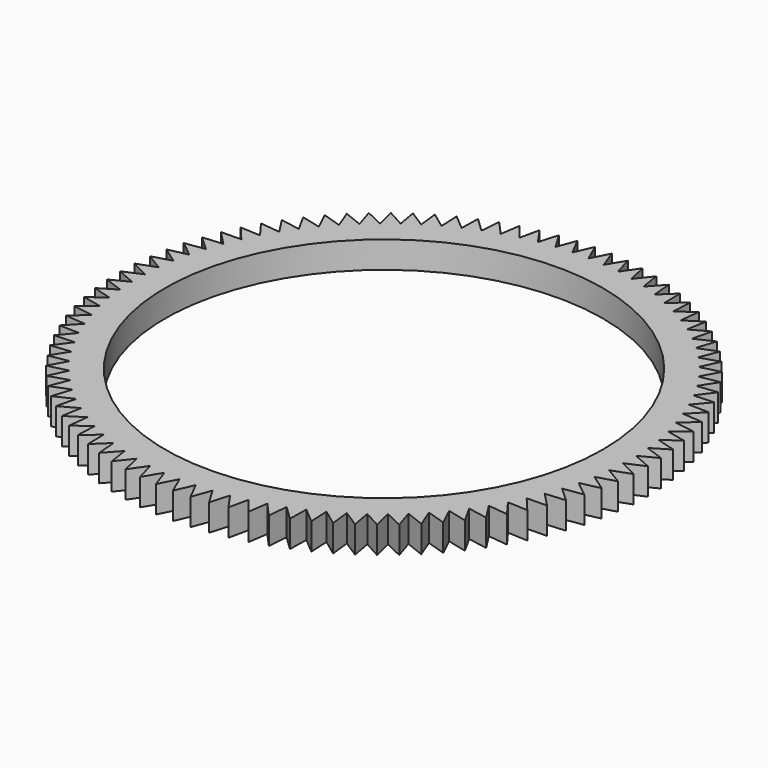
from build123d import *

# Parameters (mm, degrees)
F0_R     = 16.335263
F1_DEPTH = 2


with BuildPart() as f1:
    # F0 (on Top) → F1 (new body)
    with BuildSketch(Plane.XY):
        Polygon((0.6, 18.328104), (0, 19.702877), (-0.6, 18.328104), (-1.28863, 19.660691), (-1.797431, 18.24962), (-2.571741, 19.534316), (-2.987165, 18.092989), (-3.843841, 19.324291), (-4.164107, 17.85888), (-5.09948, 19.031517), (-5.323218, 17.548298), (-6.333282, 18.657248), (-6.459534, 17.16257), (-7.539964, 18.203085), (-7.568189, 16.70335), (-8.71436, 17.670973), (-8.644437, 16.172604), (-9.851438, 17.063192), (-9.683667, 15.572604), (-10.946332, 16.382343), (-10.681431, 14.905919), (-11.994351, 15.631343), (-11.633455, 14.175406), (-12.991009, 14.813407), (-12.535663, 13.384191), (-13.932038, 13.932038), (-13.384191, 12.535663), (-14.813407, 12.991009), (-14.175406, 11.633455), (-15.631343, 11.994351), (-14.905919, 10.681431), (-16.382343, 10.946332), (-15.572604, 9.683667), (-17.063192, 9.851438), (-16.172604, 8.644437), (-17.670973, 8.71436), (-16.70335, 7.568189), (-18.203085, 7.539964), (-17.16257, 6.459534), (-18.657248, 6.333282), (-17.548298, 5.323218), (-19.031517, 5.09948), (-17.85888, 4.164107), (-19.324291, 3.843841), (-18.092989, 2.987165), (-19.534316, 2.571741), (-18.24962, 1.797431), (-19.660691, 1.28863), (-18.328104, 0.6), (-19.702877, 0), (-18.328104, -0.6), (-19.660691, -1.28863), (-18.24962, -1.797431), (-19.534316, -2.571741), (-18.092989, -2.987165), (-19.324291, -3.843841), (-17.85888, -4.164107), (-19.031517, -5.09948), (-17.548298, -5.323218), (-18.657248, -6.333282), (-17.16257, -6.459534), (-18.203085, -7.539964), (-16.70335, -7.568189), (-17.670973, -8.71436), (-16.172604, -8.644437), (-17.063192, -9.851438), (-15.572604, -9.683667), (-16.382343, -10.946332), (-14.905919, -10.681431), (-15.631343, -11.994351), (-14.175406, -11.633455), (-14.813407, -12.991009), (-13.384191, -12.535663), (-13.932038, -13.932038), (-12.535663, -13.384191), (-12.991009, -14.813407), (-11.633455, -14.175406), (-11.994351, -15.631343), (-10.681431, -14.905919), (-10.946332, -16.382343), (-9.683667, -15.572604), (-9.851438, -17.063192), (-8.644437, -16.172604), (-8.71436, -17.670973), (-7.568189, -16.70335), (-7.539964, -18.203085), (-6.459534, -17.16257), (-6.333282, -18.657248), (-5.323218, -17.548298), (-5.09948, -19.031517), (-4.164107, -17.85888), (-3.843841, -19.324291), (-2.987165, -18.092989), (-2.571741, -19.534316), (-1.797431, -18.24962), (-1.28863, -19.660691), (-0.6, -18.328104), (0, -19.702877), (0.6, -18.328104), (1.28863, -19.660691), (1.797431, -18.24962), (2.571741, -19.534316), (2.987165, -18.092989), (3.843841, -19.324291), (4.164107, -17.85888), (5.09948, -19.031517), (5.323218, -17.548298), (6.333282, -18.657248), (6.459534, -17.16257), (7.539964, -18.203085), (7.568189, -16.70335), (8.71436, -17.670973), (8.644437, -16.172604), (9.851438, -17.063192), (9.683667, -15.572604), (10.946332, -16.382343), (10.681431, -14.905919), (11.994351, -15.631343), (11.633455, -14.175406), (12.991009, -14.813407), (12.535663, -13.384191), (13.932038, -13.932038), (13.384191, -12.535663), (14.813407, -12.991009), (14.175406, -11.633455), (15.631343, -11.994351), (14.905919, -10.681431), (16.382343, -10.946332), (15.572604, -9.683667), (17.063192, -9.851438), (16.172604, -8.644437), (17.670973, -8.71436), (16.70335, -7.568189), (18.203085, -7.539964), (17.16257, -6.459534), (18.657248, -6.333282), (17.548298, -5.323218), (19.031517, -5.09948), (17.85888, -4.164107), (19.324291, -3.843841), (18.092989, -2.987165), (19.534316, -2.571741), (18.24962, -1.797431), (19.660691, -1.28863), (18.328104, -0.6), (19.702877, 0), (18.328104, 0.6), (19.660691, 1.28863), (18.24962, 1.797431), (19.534316, 2.571741), (18.092989, 2.987165), (19.324291, 3.843841), (17.85888, 4.164107), (19.031517, 5.09948), (17.548298, 5.323218), (18.657248, 6.333282), (17.16257, 6.459534), (18.203085, 7.539964), (16.70335, 7.568189), (17.670973, 8.71436), (16.172604, 8.644437), (17.063192, 9.851438), (15.572604, 9.683667), (16.382343, 10.946332), (14.905919, 10.681431), (15.631343, 11.994351), (14.175406, 11.633455), (14.813407, 12.991009), (13.384191, 12.535663), (13.932038, 13.932038), (12.535663, 13.384191), (12.991009, 14.813407), (11.633455, 14.175406), (11.994351, 15.631343), (10.681431, 14.905919), (10.946332, 16.382343), (9.683667, 15.572604), (9.851438, 17.063192), (8.644437, 16.172604), (8.71436, 17.670973), (7.568189, 16.70335), (7.539964, 18.203085), (6.459534, 17.16257), (6.333282, 18.657248), (5.323218, 17.548298), (5.09948, 19.031517), (4.164107, 17.85888), (3.843841, 19.324291), (2.987165, 18.092989), (2.571741, 19.534316), (1.797431, 18.24962), (1.28863, 19.660691), align=None)
        Circle(F0_R, mode=Mode.SUBTRACT)
    extrude(amount=F1_DEPTH)


solid = f1.part
